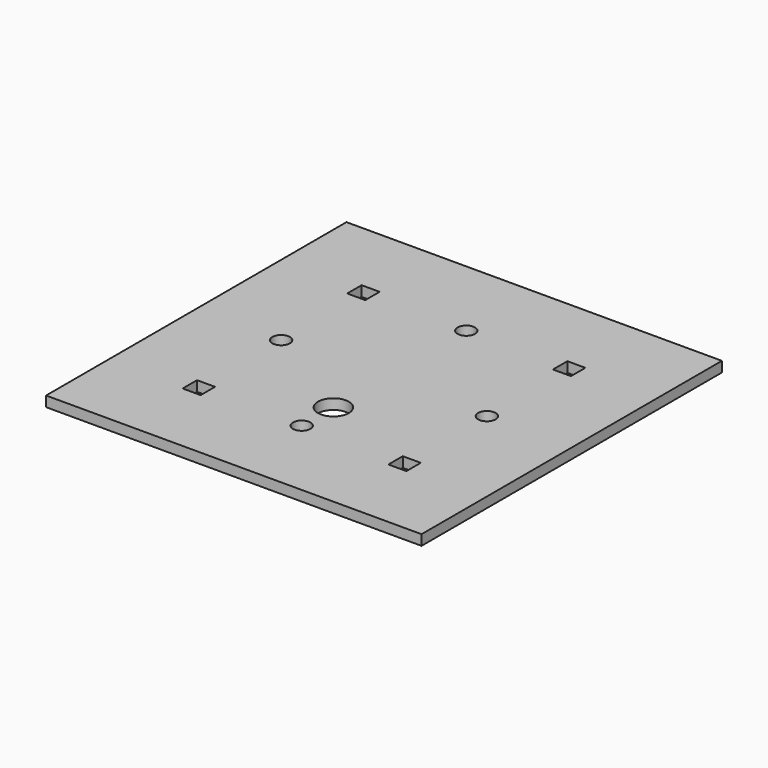
from build123d import *

# Parameters (mm, degrees)
F0_W     = 3.5
F0_H     = 3.5
F0_R     = 1.7
F0_R_2   = 3
F1_DEPTH = 2


with BuildPart() as f1:
    # F0 (on Top) → F1 (new body)
    with BuildSketch(Plane.XY):
        Polygon((36.5, -36.5), (36.5, 0), (36.5, 36.5), (0, 36.5), (-36.5, 36.5), (-36.5, 0), (-36.5, -36.5), (0, -36.5), align=None)
        with Locations((-20, -20)):
            Rectangle(F0_W, F0_H, mode=Mode.SUBTRACT)
        with Locations((0, -20)):
            Circle(F0_R, mode=Mode.SUBTRACT)
        with Locations((20, -20)):
            Rectangle(F0_W, F0_H, mode=Mode.SUBTRACT)
        with Locations((0, -12.3)):
            Circle(F0_R_2, mode=Mode.SUBTRACT)
        with Locations((-20, 0)):
            Circle(F0_R, mode=Mode.SUBTRACT)
        with Locations((-20, 20)):
            Rectangle(F0_W, F0_H, mode=Mode.SUBTRACT)
        with Locations((20, 0)):
            Circle(F0_R, mode=Mode.SUBTRACT)
        with Locations((0, 20)):
            Circle(F0_R, mode=Mode.SUBTRACT)
        with Locations((20, 20)):
            Rectangle(F0_W, F0_H, mode=Mode.SUBTRACT)
    extrude(amount=F1_DEPTH)


solid = f1.part
